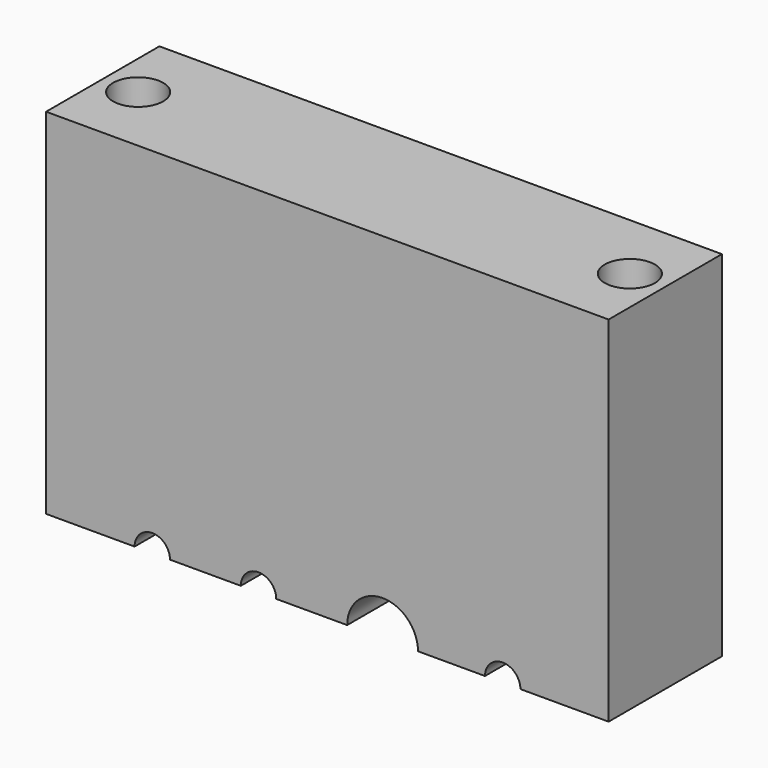
from build123d import *

# Parameters (mm, degrees)
F1_DEPTH   = 12.7
F4_D       = 4.4958
F4_ON_F3_D = 4.4958


with BuildPart() as f1:
    # F0 (on Front) → F1 (new body)
    with BuildSketch(Plane.XZ):
        with BuildLine():
            Line((-51.8633585078, -3.48165389), (-51.8633585078, -35.23165389))
            Line((-51.8633585078, -35.23165389), (-43.9258585078, -35.23165389))
            ThreePointArc((-43.9258585078, -35.23165389), (-42.3383585078, -33.64415389), (-40.7508585078, -35.23165389))
            Line((-40.7508585078, -35.23165389), (-34.4008585078, -35.23165389))
            ThreePointArc((-34.4008585078, -35.23165389), (-32.8133585078, -33.64415389), (-31.2258585078, -35.23165389))
            Line((-31.2258585078, -35.23165389), (-24.8631585078, -35.23165389))
            ThreePointArc((-24.8631585078, -35.23165389), (-21.6881585078, -32.05665389), (-18.5131585078, -35.23165389))
            Line((-18.5131585078, -35.23165389), (-12.5060585078, -35.23165389))
            ThreePointArc((-12.5060585078, -35.23165389), (-10.9185585078, -33.64415389), (-9.3310585078, -35.23165389))
            Line((-9.3310585078, -35.23165389), (-1.4189585078, -35.23165389))
            Line((-1.4189585078, -35.23165389), (-1.4189585078, -3.48165389))
            Line((-1.4189585078, -3.48165389), (-51.8633585078, -3.48165389))
        make_face()
    extrude(amount=F1_DEPTH)

    # F4 (through all)
    with Locations(Plane(origin=(0, 0, -35.23165389), x_dir=(1, 0, 0), z_dir=(0, 0, -1))):
        with Locations((-48.6883585078, 6.35)):
            Hole(F4_D / 2)

    # F4 on F3 (through all)
    with Locations(Plane(origin=(0, 0, -35.23165389), x_dir=(1, 0, 0), z_dir=(0, 0, -1))):
        with Locations((-4.5939585078, 6.35)):
            Hole(F4_ON_F3_D / 2)


solid = f1.part
